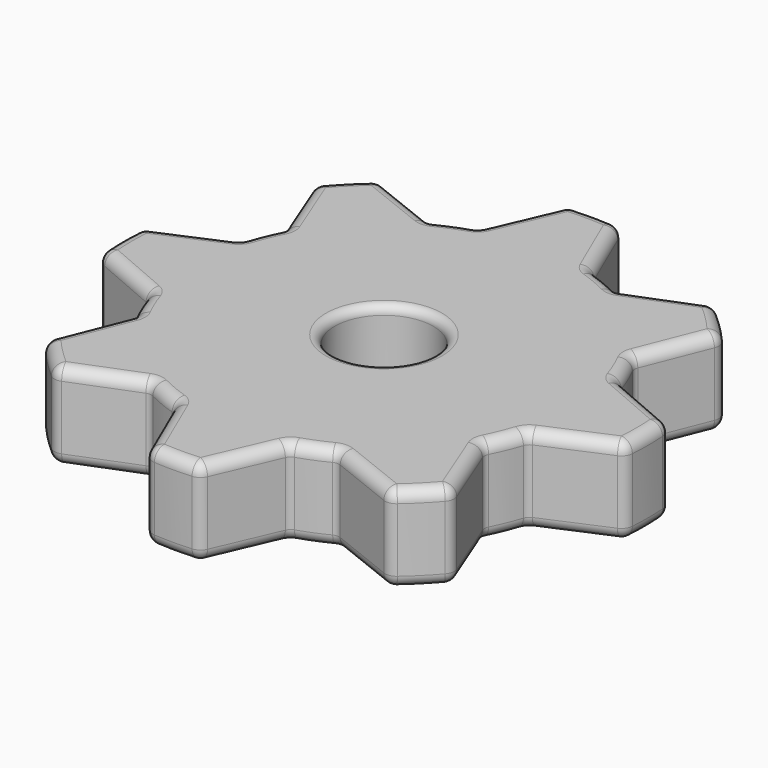
from build123d import *

# Parameters (mm, degrees)
SKETCH001_R = 17
PAD_DEPTH   = 30
FILLET_R    = 3
FILLET001_R = 3
FILLET002_R = 4
FILLET003_R = 4


with BuildPart() as part:
    # Sketch001 → Pad (new body)
    with BuildSketch(Plane.XY):
        with BuildLine():
            ThreePointArc((60.1911262918, -32.1728272884), (63.0547780939, -26.1181442589), (65.3111779137, -19.8119292226))
            Line((90.5618101272, -8.91955977), (65.3111779137, -19.8119292226))
            ThreePointArc((90.5618101272, -8.91955977), (91, 0), (90.5618101272, 8.91955977))
            Line((65.3111779137, 19.8119292226), (90.5618101272, 8.91955977))
            ThreePointArc((65.3111779137, 19.8119292226), (63.0547780939, 26.1181442589), (60.1911262918, 32.1728272884))
            Line((70.343951256, 57.7297888589), (60.1911262918, 32.1728272884))
            ThreePointArc((70.343951256, 57.7297888589), (64.346717088, 64.346717088), (57.7297888589, 70.343951256))
            Line((32.1728272884, 60.1911262918), (57.7297888589, 70.343951256))
            ThreePointArc((32.1728272884, 60.1911262918), (26.1181442589, 63.0547780939), (19.8119292226, 65.3111779137))
            Line((8.91955977, 90.5618101272), (19.8119292226, 65.3111779137))
            ThreePointArc((8.91955977, 90.5618101272), (0, 91), (-8.91955977, 90.5618101272))
            Line((-19.8119292226, 65.3111779137), (-8.91955977, 90.5618101272))
            ThreePointArc((-19.8119292226, 65.3111779137), (-26.1181442589, 63.0547780939), (-32.1728272884, 60.1911262918))
            Line((-57.7297888589, 70.343951256), (-32.1728272884, 60.1911262918))
            ThreePointArc((-57.7297888589, 70.343951256), (-64.346717088, 64.346717088), (-70.343951256, 57.7297888589))
            Line((-60.1911262918, 32.1728272884), (-70.343951256, 57.7297888589))
            ThreePointArc((-60.1911262918, 32.1728272884), (-63.0547780939, 26.1181442589), (-65.3111779137, 19.8119292226))
            Line((-90.5618101272, 8.91955977), (-65.3111779137, 19.8119292226))
            ThreePointArc((-90.5618101272, 8.91955977), (-91, 0), (-90.5618101272, -8.91955977))
            Line((-65.3111779137, -19.8119292226), (-90.5618101272, -8.91955977))
            ThreePointArc((-65.3111779137, -19.8119292226), (-63.0547780939, -26.1181442589), (-60.1911262918, -32.1728272884))
            Line((-70.343951256, -57.7297888589), (-60.1911262918, -32.1728272884))
            ThreePointArc((-70.343951256, -57.7297888589), (-64.346717088, -64.346717088), (-57.7297888589, -70.343951256))
            Line((-32.1728272884, -60.1911262918), (-57.7297888589, -70.343951256))
            ThreePointArc((-32.1728272884, -60.1911262918), (-26.1181442589, -63.0547780939), (-19.8119292226, -65.3111779137))
            Line((-8.91955977, -90.5618101272), (-19.8119292226, -65.3111779137))
            ThreePointArc((-8.91955977, -90.5618101272), (0, -91), (8.91955977, -90.5618101272))
            Line((19.8119292226, -65.3111779137), (8.91955977, -90.5618101272))
            ThreePointArc((19.8119292226, -65.3111779137), (26.1181442589, -63.0547780939), (32.1728272884, -60.1911262918))
            Line((57.7297888589, -70.343951256), (32.1728272884, -60.1911262918))
            ThreePointArc((57.7297888589, -70.343951256), (64.346717088, -64.346717088), (70.343951256, -57.7297888589))
            Line((60.1911262918, -32.1728272884), (70.343951256, -57.7297888589))
        make_face()
        Circle(SKETCH001_R, mode=Mode.SUBTRACT)
    extrude(amount=PAD_DEPTH)

    # Fillet
    fillet_edges = [part.edges().sort_by_distance(p)[0] for p in [
        (17, 0, 15),
        (-17, 0, 0),
        (-17, 0, 30),
    ]]
    fillet(fillet_edges, radius=FILLET_R)

    # Fillet001
    fillet001_edges = [part.edges().sort_by_distance(p)[0] for p in [
        (19.811929, -65.311178, 15),
        (32.172827, -60.191126, 15),
        (60.191126, -32.172827, 15),
        (65.311178, -19.811929, 15),
        (-19.811929, -65.311178, 15),
        (-32.172827, -60.191126, 15),
        (-60.191126, -32.172827, 15),
        (-65.311178, -19.811929, 15),
        (-65.311178, 19.811929, 15),
        (-60.191126, 32.172827, 15),
        (-32.172827, 60.191126, 15),
        (-19.811929, 65.311178, 15),
        (19.811929, 65.311178, 15),
        (32.172827, 60.191126, 15),
        (60.191126, 32.172827, 15),
        (65.311178, 19.811929, 15),
    ]]
    fillet(fillet001_edges, radius=FILLET001_R)

    # Fillet002
    fillet002_edges = [part.edges().sort_by_distance(p)[0] for p in [
        (8.91956, -90.56181, 15),
        (-8.91956, -90.56181, 15),
        (57.729789, -70.343951, 15),
        (70.343951, -57.729789, 15),
        (90.56181, -8.91956, 15),
        (90.56181, 8.91956, 15),
        (-70.343951, -57.729789, 15),
        (-57.729789, -70.343951, 15),
        (-90.56181, -8.91956, 15),
        (-90.56181, 8.91956, 15),
        (-70.343951, 57.729789, 15),
        (-57.729789, 70.343951, 15),
        (-8.91956, 90.56181, 15),
        (8.91956, 90.56181, 15),
        (57.729789, 70.343951, 15),
        (70.343951, 57.729789, 15),
    ]]
    fillet(fillet002_edges, radius=FILLET002_R)

    # Fillet003
    fillet003_edges = [part.edges().sort_by_distance(p)[0] for p in [
        (65.079258, -44.477362, 30),
        (69.68634, -57.650427, 30),
        (60.489758, -32.202826, 30),
        (64.346717, -64.346717, 30),
        (63.054778, -26.118144, 30),
        (57.650427, -69.68634, 30),
        (65.543555, -20.001882, 30),
        (44.477362, -65.079258, 30),
        (77.468229, -14.56774, 30),
        (32.202826, -60.489758, 30),
        (90.040691, -8.510675, 30),
        (26.118144, -63.054778, 30),
        (91, 0, 30),
        (20.001882, -65.543555, 30),
        (90.040691, 8.510675, 30),
        (14.56774, -77.468229, 30),
        (77.468229, 14.56774, 30),
        (8.510675, -90.040691, 30),
        (65.543555, 20.001882, 30),
        (0, -91, 30),
        (63.054778, 26.118144, 30),
        (-8.510675, -90.040691, 30),
        (60.489758, 32.202826, 30),
        (-14.56774, -77.468229, 30),
        (65.079258, 44.477362, 30),
        (-20.001882, -65.543555, 30),
        (69.68634, 57.650427, 30),
        (-26.118144, -63.054778, 30),
        (64.346717, 64.346717, 30),
        (-32.202826, -60.489758, 30),
        (57.650427, 69.68634, 30),
        (-44.477362, -65.079258, 30),
        (44.477362, 65.079258, 30),
        (-57.650427, -69.68634, 30),
        (32.202826, 60.489758, 30),
        (-64.346717, -64.346717, 30),
        (26.118144, 63.054778, 30),
        (-69.68634, -57.650427, 30),
        (20.001882, 65.543555, 30),
        (-65.079258, -44.477362, 30),
        (14.56774, 77.468229, 30),
        (-60.489758, -32.202826, 30),
        (8.510675, 90.040691, 30),
        (-63.054778, -26.118144, 30),
        (0, 91, 30),
        (-65.543555, -20.001882, 30),
        (-8.510675, 90.040691, 30),
        (-77.468229, -14.56774, 30),
        (-14.56774, 77.468229, 30),
        (-90.040691, -8.510675, 30),
        (-20.001882, 65.543555, 30),
        (-91, 0, 30),
        (-26.118144, 63.054778, 30),
        (-90.040691, 8.510675, 30),
        (-32.202826, 60.489758, 30),
        (-77.468229, 14.56774, 30),
        (-44.477362, 65.079258, 30),
        (-65.543555, 20.001882, 30),
        (-57.650427, 69.68634, 30),
        (-63.054778, 26.118144, 30),
        (-64.346717, 64.346717, 30),
        (-60.489758, 32.202826, 30),
        (-69.68634, 57.650427, 30),
        (-65.079258, 44.477362, 30),
        (-20, 0, 30),
        (65.079258, -44.477362, 0),
        (69.68634, -57.650427, 0),
        (60.489758, -32.202826, 0),
        (64.346717, -64.346717, 0),
        (63.054778, -26.118144, 0),
        (57.650427, -69.68634, 0),
        (65.543555, -20.001882, 0),
        (44.477362, -65.079258, 0),
        (77.468229, -14.56774, 0),
        (32.202826, -60.489758, 0),
        (90.040691, -8.510675, 0),
        (26.118144, -63.054778, 0),
        (91, 0, 0),
        (20.001882, -65.543555, 0),
        (90.040691, 8.510675, 0),
        (14.56774, -77.468229, 0),
        (77.468229, 14.56774, 0),
        (8.510675, -90.040691, 0),
        (65.543555, 20.001882, 0),
        (0, -91, 0),
        (63.054778, 26.118144, 0),
        (-8.510675, -90.040691, 0),
        (60.489758, 32.202826, 0),
        (-14.56774, -77.468229, 0),
        (65.079258, 44.477362, 0),
        (-20.001882, -65.543555, 0),
        (69.68634, 57.650427, 0),
        (-26.118144, -63.054778, 0),
        (64.346717, 64.346717, 0),
        (-32.202826, -60.489758, 0),
        (57.650427, 69.68634, 0),
        (-44.477362, -65.079258, 0),
        (44.477362, 65.079258, 0),
        (-57.650427, -69.68634, 0),
        (32.202826, 60.489758, 0),
        (-64.346717, -64.346717, 0),
        (26.118144, 63.054778, 0),
        (-69.68634, -57.650427, 0),
        (20.001882, 65.543555, 0),
        (-65.079258, -44.477362, 0),
        (14.56774, 77.468229, 0),
        (-60.489758, -32.202826, 0),
        (8.510675, 90.040691, 0),
        (-63.054778, -26.118144, 0),
        (0, 91, 0),
        (-65.543555, -20.001882, 0),
        (-8.510675, 90.040691, 0),
        (-77.468229, -14.56774, 0),
        (-14.56774, 77.468229, 0),
        (-90.040691, -8.510675, 0),
        (-20.001882, 65.543555, 0),
        (-91, 0, 0),
        (-26.118144, 63.054778, 0),
        (-90.040691, 8.510675, 0),
        (-32.202826, 60.489758, 0),
        (-77.468229, 14.56774, 0),
        (-44.477362, 65.079258, 0),
        (-65.543555, 20.001882, 0),
        (-57.650427, 69.68634, 0),
        (-63.054778, 26.118144, 0),
        (-64.346717, 64.346717, 0),
        (-60.489758, 32.202826, 0),
        (-69.68634, 57.650427, 0),
        (-65.079258, 44.477362, 0),
        (-20, 0, 0),
    ]]
    fillet(fillet003_edges, radius=FILLET003_R)


solid = part.part
